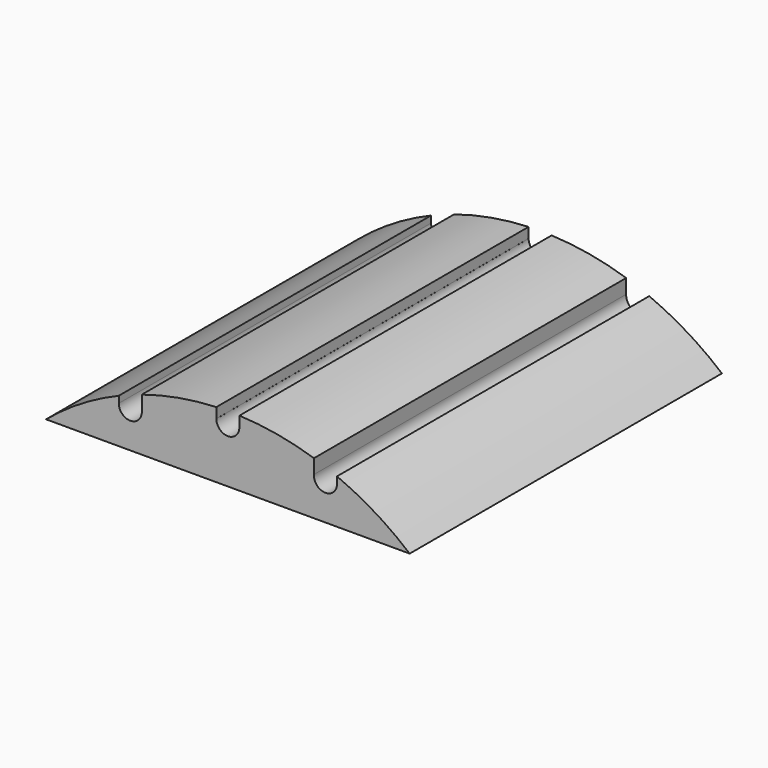
from build123d import *

# Parameters (mm, degrees)
F1_DEPTH = 101.6


with BuildPart() as f1:
    # F0 (on Front) → F1 (new body)
    with BuildSketch(Plane.XZ):
        with BuildLine():
            Line((-47.3245013075, 56.1975), (47.3245013075, 56.1975))
            ThreePointArc((47.3245013075, 56.1975), (38.3009648813, 62.6961204495), (28.4, 67.7584491429))
            Line((28.4, 67.7584491429), (28.4, 66.0049502102))
            ThreePointArc((28.4, 66.0049502102), (25.2876310607, 63.0070554119), (22.4084178523, 66.2295303826))
            Line((22.4084178523, 66.2295303826), (22.4084178523, 69.9687804639))
            ThreePointArc((22.4084178523, 69.9687804639), (12.8187011015, 72.3425762074), (2.997208132, 73.408338584))
            Line((2.997208132, 73.408338584), (2.997208132, 70.7234999449))
            ThreePointArc((2.997208132, 70.7234999449), (-0.002791868, 67.7234999449), (-3.002791868, 70.7234999449))
            Line((-3.002791868, 70.7234999449), (-3.0169040135, 70.7234999449))
            Line((-3.0169040135, 70.7234999449), (-3.0169040135, 73.407531769))
            ThreePointArc((-3.0169040135, 73.407531769), (-12.8301586499, 72.3405450579), (-22.4118081837, 69.9676945753))
            Line((-22.4118081837, 69.9676945753), (-22.4118081837, 66.2708631072))
            ThreePointArc((-22.4118081837, 66.2708631072), (-22.4029534998, 66.1380376833), (-22.4, 66.0049502102))
            ThreePointArc((-22.4, 66.0049502102), (-25.4, 63.0049502102), (-28.4, 66.0049502102))
            Line((-28.4, 66.0049502102), (-28.4, 67.7584491429))
            ThreePointArc((-28.4, 67.7584491429), (-38.3009648813, 62.6961204495), (-47.3245013075, 56.1975))
        make_face()
    extrude(amount=F1_DEPTH)


solid = f1.part
